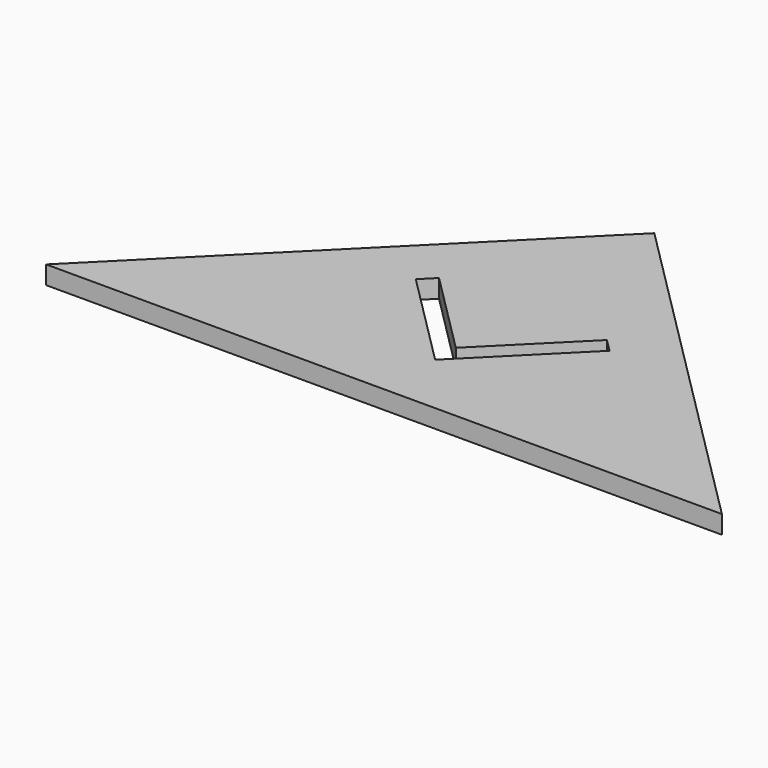
from build123d import *

# Parameters (mm, degrees)
BOX100_W                  = 7.5
BOX100_H                  = 1
BOX100_DEPTH              = 2
BOX098_W                  = 7.5
BOX098_H                  = 1
BOX098_DEPTH              = 2
FUSION022_PLACEMENT_ANGLE = 45
EXTRUDE003_DEPTH          = 1


with BuildPart() as cube100:
    # Box100 → Box100 (new body)
    with BuildSketch(Plane.XY):
        with Locations((3.75, 0.5)):
            Rectangle(BOX100_W, BOX100_H)
    extrude(amount=BOX100_DEPTH)


with BuildPart() as obj1:
    # Box098 → Box098 (new body)
    with BuildSketch(Plane(origin=(1, 0, 0), x_dir=(0, 1, 0), z_dir=(0, 0, 1))):
        with Locations((3.75, 0.5)):
            Rectangle(BOX098_W, BOX098_H)
    extrude(amount=BOX098_DEPTH)

    # Fusion022: union Cube100
    add(cube100.part)


with BuildPart() as obj1_1:
    # Fusion022 placement: moved
    add(obj1.part.moved(Location((0, -15, 0))).rotate(Axis((0, -15, 0), (0, 0, 1)), FUSION022_PLACEMENT_ANGLE))


with BuildPart() as cut012:
    # Sketch014 → Extrude003 (new body)
    with BuildSketch(Plane.XY):
        Polygon((0, 0), (18.5, -18.5), (-18.5, -18.5), align=None)
    extrude(amount=EXTRUDE003_DEPTH)

    # Cut012: cut obj1
    add(obj1_1.part, mode=Mode.SUBTRACT)


solid = cut012.part
